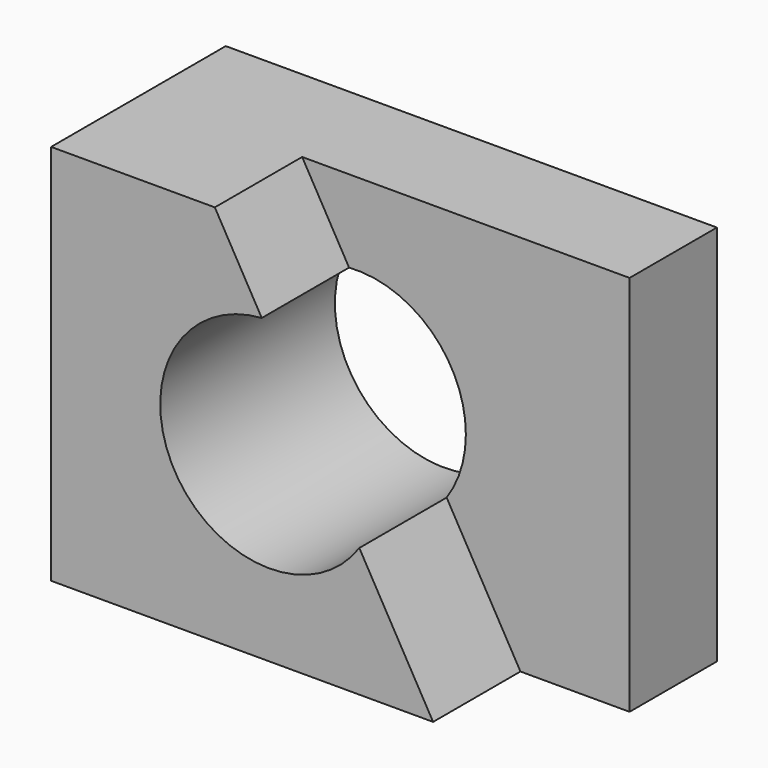
from build123d import *

# Parameters (mm, degrees)
F0_W     = 57.15
F0_H     = 44.45
F1_DEPTH = 25.4
F3_DEPTH = 25.4
F5_DEPTH = 12.7


with BuildPart() as f1:
    # F0 (on Front) → F1 (new body)
    with BuildSketch(Plane.XZ):
        with Locations((28.575, 22.225)):
            Rectangle(F0_W, F0_H)
    extrude(amount=-F1_DEPTH)

    # F2 (on face) → F3 (cut)
    with BuildSketch(Plane.XZ):
        with BuildLine():
            ThreePointArc((12.7, 22.225), (25.4, 9.525), (38.1, 22.225))
            ThreePointArc((38.1, 22.225), (25.4, 34.925), (12.7, 22.225))
        make_face()
    extrude(amount=-F3_DEPTH, mode=Mode.SUBTRACT)

    # F4 (on face) → F5 (cut)
    with BuildSketch(Plane.XZ):
        with BuildLine():
            Line((57.15, 44.45), (19.05, 44.45))
            Line((19.05, 44.45), (24.5106721265, 34.8938237786))
            ThreePointArc((24.5106721265, 34.8938237786), (34.0601251725, 31.5143612265), (38.1, 22.225))
            ThreePointArc((38.1, 22.225), (37.5279081079, 18.4562011295), (35.8631740273, 15.0269454522))
            Line((35.8631740273, 15.0269454522), (44.45, 0))
            Line((44.45, 0), (57.15, 0))
            Line((57.15, 0), (57.15, 44.45))
        make_face()
    extrude(amount=-F5_DEPTH, mode=Mode.SUBTRACT)


solid = f1.part
